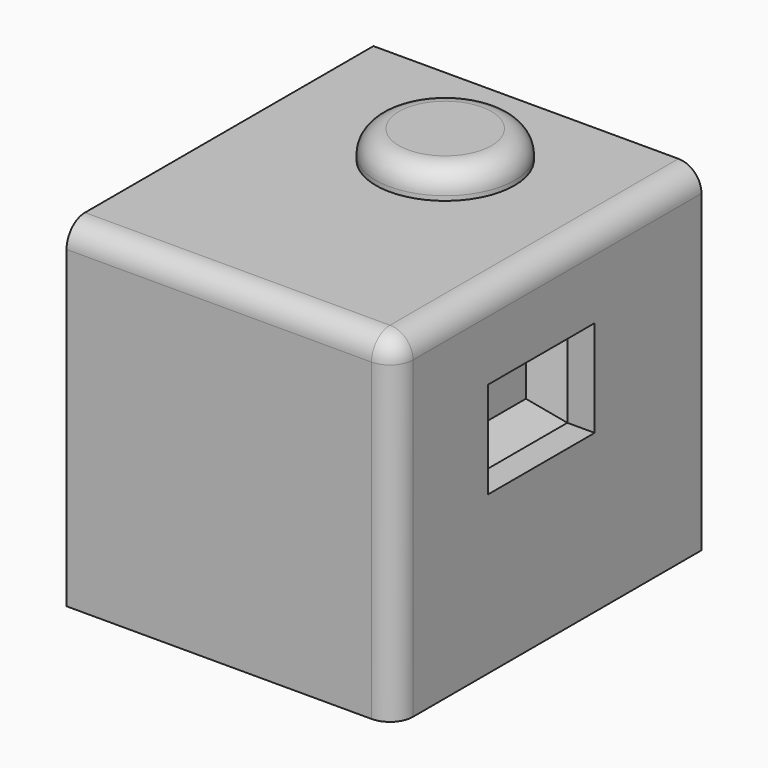
from build123d import *

# Parameters (mm, degrees)
F0_W     = 72.307944
F0_H     = 84.555768
F1_DEPTH = 74.3351
F2_R     = 15.279169
F3_DEPTH = 6.079547
F4_R     = 5.08
F5_W     = 29.425662
F5_H     = 21.301456
F6_DEPTH = 11.095189
F7_SIZE  = 5.08


with BuildPart() as f1:
    # F0 (on Top) → F1 (new body)
    with BuildSketch(Plane.XY):
        Rectangle(F0_W, F0_H)
    extrude(amount=F1_DEPTH)

    # F2 (on face) → F3 (join)
    with BuildSketch(Plane.XY.offset(74.3351)):
        with Locations((0, 16.862802)):
            Circle(F2_R)
    extrude(amount=F3_DEPTH)

    # F4
    f4_edges = [f1.edges().sort_by_distance(p)[0] for p in [
        (-15.279169, 16.862802, 80.414647),
        (0, -42.277884, 74.3351),
        (36.153972, 0, 74.3351),
        (36.153972, -42.277884, 37.16755),
    ]]
    fillet(f4_edges, radius=F4_R)

    # F5 (on face) → F6 (cut)
    with BuildSketch(Plane.YZ.offset(36.153972)):
        with Locations((-1.861071, 45.404758)):
            Rectangle(F5_W, F5_H)
    extrude(amount=-F6_DEPTH, mode=Mode.SUBTRACT)

    # F7
    f7_edges = [f1.edges().sort_by_distance(p)[0] for p in [
        (25.058783, -1.861071, 56.055486),
        (25.058783, -16.573902, 45.404758),
        (25.058783, -1.861071, 34.75403),
        (25.058783, 12.85176, 45.404758),
    ]]
    chamfer(f7_edges, length=F7_SIZE)


solid = f1.part
